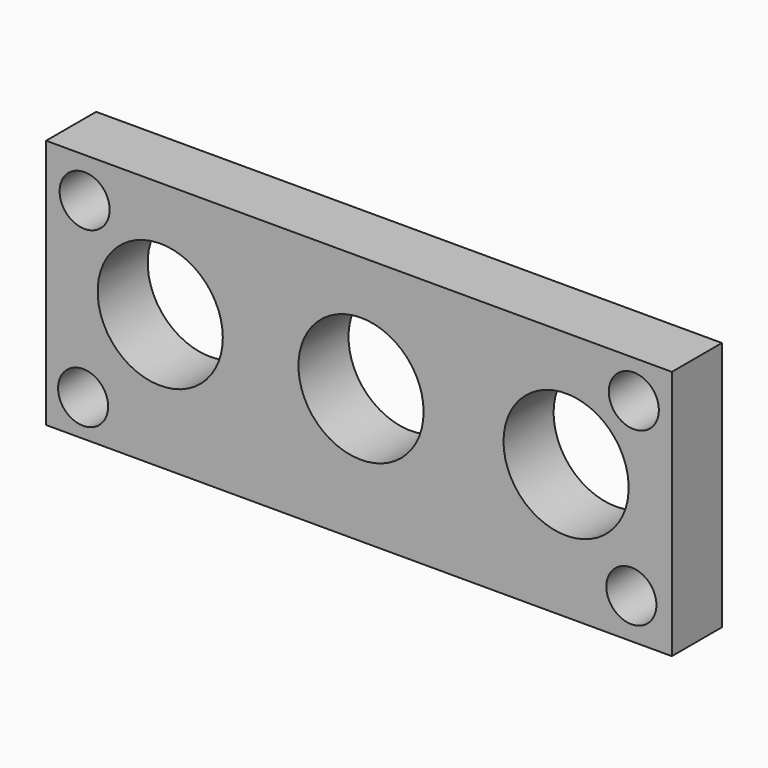
from build123d import *

# Parameters (mm, degrees)
F0_W     = 75
F0_H     = 30
F1_DEPTH = 7.5
F2_R     = 7.5
F3_DEPTH = 25
F4_R     = 7.5
F5_DEPTH = 25
F6_R     = 3
F7_DEPTH = 7.5


with BuildPart() as f1:
    # F0 (on Front) → F1 (new body)
    with BuildSketch(Plane.XZ):
        with Locations((-4.015371, -1.101968)):
            Rectangle(F0_W, F0_H)
    extrude(amount=F1_DEPTH)

    # F2 (on face) → F3 (cut)
    with BuildSketch(Plane(origin=(0, 0, 0), x_dir=(-1, 0, 0), z_dir=(0, 1, 0))):
        with Locations((-20.808353, 0)):
            Circle(F2_R)
    extrude(amount=-F3_DEPTH, mode=Mode.SUBTRACT)

    # F4 (on face) → F5 (cut)
    with BuildSketch(Plane.XZ.offset(7.5)):
        with Locations((-3.769332, 0)):
            Circle(F4_R)
        with Locations((-27.835064, 0)):
            Circle(F4_R)
    extrude(amount=-F5_DEPTH, mode=Mode.SUBTRACT)

    # F6 (on face) → F7 (cut, through all)
    with BuildSketch(Plane.XZ.offset(7.5)):
        with Locations((-36.896855, 9.086539)):
            Circle(F6_R)
        with Locations((-37.076353, -11.738191)):
            Circle(F6_R)
        with Locations((28.926538, 9.358378)):
            Circle(F6_R)
        with Locations((28.632505, -11.309632)):
            Circle(F6_R)
    extrude(amount=-F7_DEPTH, mode=Mode.SUBTRACT)


solid = f1.part
